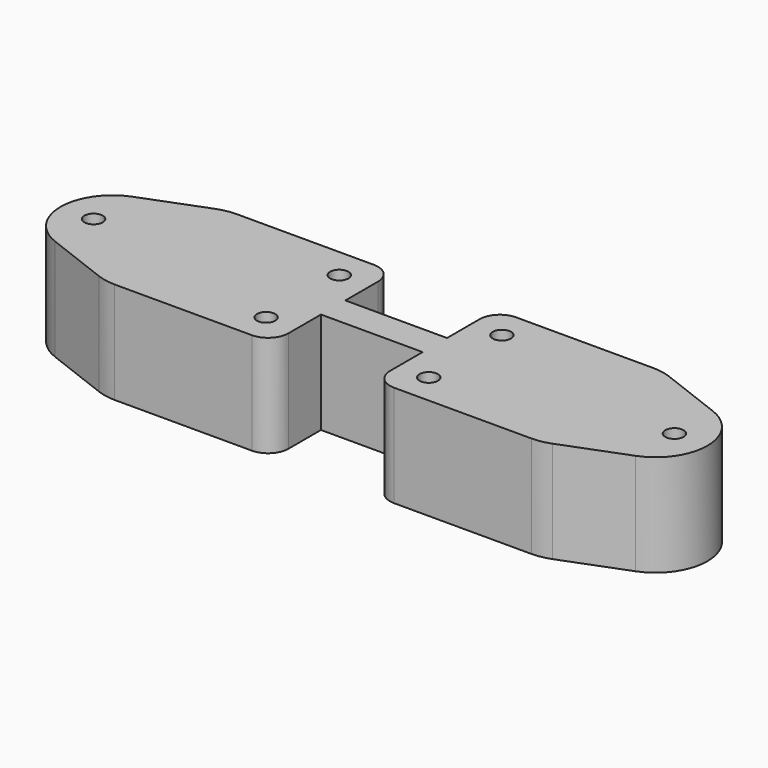
from build123d import *

# Parameters (mm, degrees)
SKETCH_R  = 0.9
PAD_DEPTH = 10


with BuildPart() as part:
    # Sketch (on XY_Plane of Origin) → Pad (new body)
    with BuildSketch(Plane.XY):
        with BuildLine():
            ThreePointArc((5, -5.5), (5.585786, -6.914214), (7, -7.5))
            Line((7, -7.5), (20.5, -7.5))
            ThreePointArc((20.5, -7.5), (21.413382, -7.415865), (22.296025, -7.166293))
            Line((22.296025, -7.166293), (28.548858, -4.759619))
            ThreePointArc((28.548858, -4.759619), (31.816912, 0), (28.548858, 4.759619))
            Line((28.548858, 4.759619), (22.296025, 7.166293))
            ThreePointArc((22.296025, 7.166293), (21.413382, 7.415865), (20.5, 7.5))
            Line((20.5, 7.5), (7, 7.5))
            ThreePointArc((7, 7.5), (5.585786, 6.914214), (5, 5.5))
            Line((5, 5.5), (5, 1.5))
            Line((-5, 1.5), (5, 1.5))
            Line((-5, 5.5), (-5, 1.5))
            ThreePointArc((-5, 5.5), (-5.585786, 6.914214), (-7, 7.5))
            Line((-20.5, 7.5), (-7, 7.5))
            ThreePointArc((-20.5, 7.5), (-21.413382, 7.415865), (-22.296025, 7.166293))
            Line((-28.548858, 4.759619), (-22.296025, 7.166293))
            ThreePointArc((-28.548858, 4.759619), (-31.816912, 0), (-28.548858, -4.759619))
            Line((-22.296025, -7.166293), (-28.548858, -4.759619))
            ThreePointArc((-22.296025, -7.166293), (-21.413382, -7.415865), (-20.5, -7.5))
            Line((-7, -7.5), (-20.5, -7.5))
            ThreePointArc((-7, -7.5), (-5.585786, -6.914214), (-5, -5.5))
            Line((-5, -1.5), (-5, -5.5))
            Line((-5, -1.5), (5, -1.5))
            Line((5, -1.5), (5, -5.5))
        make_face()
        with Locations((8, 4.5)):
            Circle(SKETCH_R, mode=Mode.SUBTRACT)
        with Locations((8, -4.5)):
            Circle(SKETCH_R, mode=Mode.SUBTRACT)
        with Locations((28.566912, 0)):
            Circle(SKETCH_R, mode=Mode.SUBTRACT)
        with Locations((-8, 4.5)):
            Circle(SKETCH_R, mode=Mode.SUBTRACT)
        with Locations((-8, -4.5)):
            Circle(SKETCH_R, mode=Mode.SUBTRACT)
        with Locations((-28.566912, 0)):
            Circle(SKETCH_R, mode=Mode.SUBTRACT)
    extrude(amount=PAD_DEPTH)


solid = part.part
